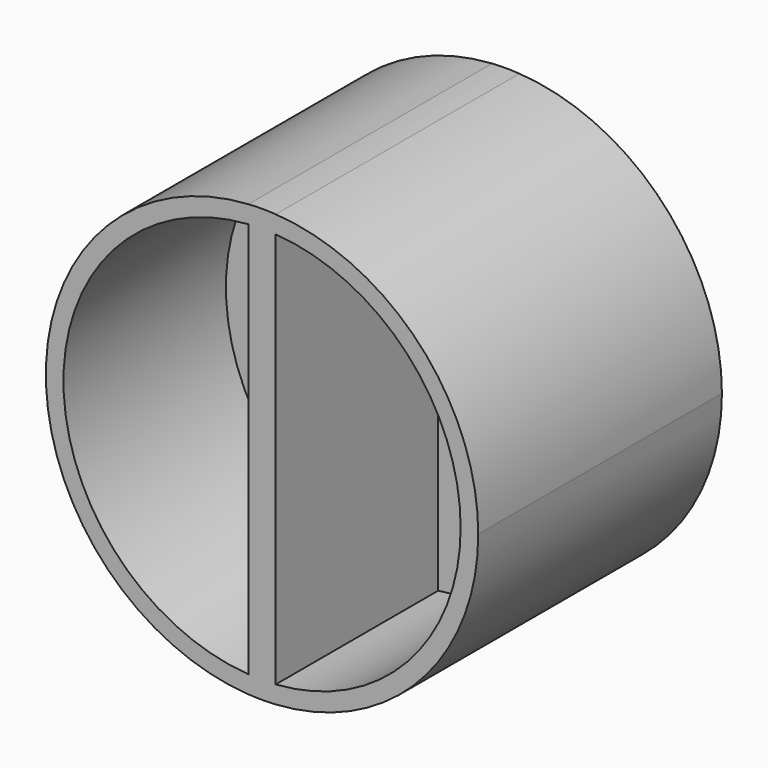
from build123d import *

# Parameters (mm, degrees)
F1_DEPTH = 76.2
F2_DEPTH = 25.4


with BuildPart() as f1:
    # F0 (on Front) → F1 (new body)
    with BuildSketch(Plane.XZ):
        with BuildLine():
            ThreePointArc((3.4268661402, 53.9732351899), (0, 54.0819149847), (-3.4268661402, 53.9732351899))
            Line((-3.4268661402, 53.9732351899), (3.4268661402, 53.9732351899))
        make_face()
        with BuildLine():
            Line((3.4268661402, -53.9732351899), (-3.4268661402, -53.9732351899))
            ThreePointArc((-3.4268661402, -53.9732351899), (0, -54.0819149847), (3.4268661402, -53.9732351899))
        make_face()
        with BuildLine():
            ThreePointArc((54.0819149847, 0), (39.4346612238, 37.01028266), (3.4268661402, 53.9732351899))
            Line((3.4268661402, 53.9732351899), (3.4268661402, 49.5631147535))
            ThreePointArc((3.4268661402, 49.5631147535), (36.3214634179, 33.8968590108), (49.681442769, 0))
            ThreePointArc((49.681442769, 0), (36.3214634179, -33.8968590108), (3.4268661402, -49.5631147535))
            Line((3.4268661402, -49.5631147535), (3.4268661402, -53.9732351899))
            ThreePointArc((3.4268661402, -53.9732351899), (39.4346612238, -37.01028266), (54.0819149847, 0))
        make_face()
        with BuildLine():
            Line((3.4268661402, 53.9732351899), (-3.4268661402, 53.9732351899))
            Line((-3.4268661402, 53.9732351899), (-3.4268661402, 49.5631147535))
            ThreePointArc((-3.4268661402, 49.5631147535), (0, 49.681442769), (3.4268661402, 49.5631147535))
            Line((3.4268661402, 49.5631147535), (3.4268661402, 53.9732351899))
        make_face()
        with BuildLine():
            Line((-3.4268661402, -49.5631147535), (-3.4268661402, -53.9732351899))
            Line((-3.4268661402, -53.9732351899), (3.4268661402, -53.9732351899))
            Line((3.4268661402, -53.9732351899), (3.4268661402, -49.5631147535))
            ThreePointArc((3.4268661402, -49.5631147535), (0, -49.681442769), (-3.4268661402, -49.5631147535))
        make_face()
        with BuildLine():
            Line((-3.4268661402, 49.5631147535), (-3.4268661402, 53.9732351899))
            ThreePointArc((-3.4268661402, 53.9732351899), (-54.0819149847, 0), (-3.4268661402, -53.9732351899))
            Line((-3.4268661402, -53.9732351899), (-3.4268661402, -49.5631147535))
            ThreePointArc((-3.4268661402, -49.5631147535), (-49.681442769, 0), (-3.4268661402, 49.5631147535))
        make_face()
        with BuildLine():
            ThreePointArc((3.4268661402, 49.5631147535), (0, 49.681442769), (-3.4268661402, 49.5631147535))
            Line((-3.4268661402, 49.5631147535), (-3.4268661402, -49.5631147535))
            ThreePointArc((-3.4268661402, -49.5631147535), (0, -49.681442769), (3.4268661402, -49.5631147535))
            Line((3.4268661402, -49.5631147535), (3.4268661402, 49.5631147535))
        make_face()
    extrude(amount=F1_DEPTH)

    # F0 (on Front) → F2 (join)
    with BuildSketch(Plane.XZ):
        with BuildLine():
            Line((-3.4268661402, -49.5631147535), (-3.4268661402, 49.5631147535))
            ThreePointArc((-3.4268661402, 49.5631147535), (-49.681442769, 0), (-3.4268661402, -49.5631147535))
        make_face()
        with BuildLine():
            ThreePointArc((49.681442769, 0), (36.3214634179, 33.8968590108), (3.4268661402, 49.5631147535))
            Line((3.4268661402, 49.5631147535), (3.4268661402, -49.5631147535))
            ThreePointArc((3.4268661402, -49.5631147535), (36.3214634179, -33.8968590108), (49.681442769, 0))
        make_face()
    extrude(amount=F2_DEPTH)


solid = f1.part
